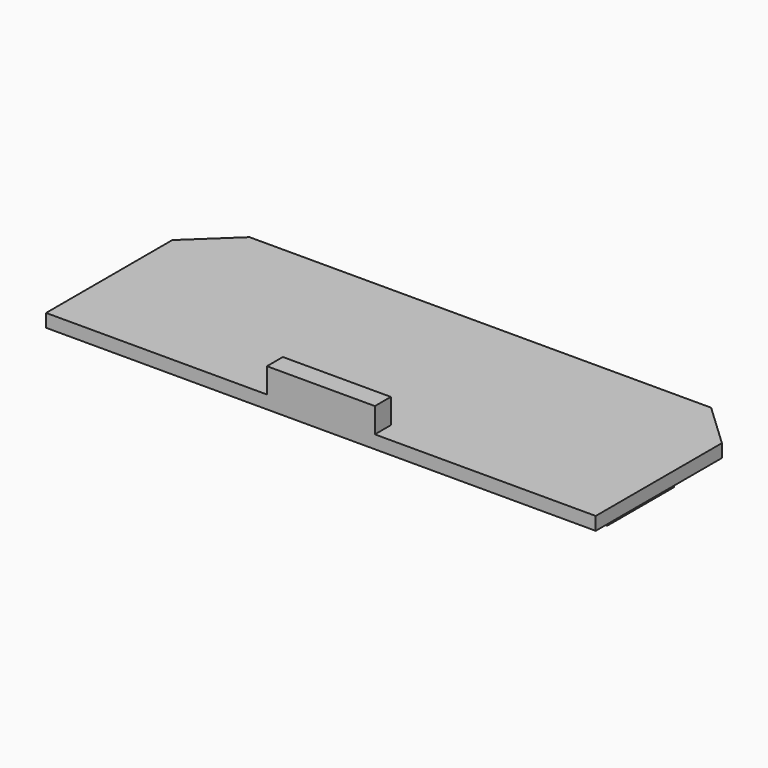
from build123d import *

# Parameters (mm, degrees)
F0_W     = 5.6
F0_H     = 10
F1_DEPTH = 7
F2_DEPTH = 1.58
F4_DEPTH = 3


with BuildPart() as f1:
    # F0 (on Top) → F1 (new body)
    with BuildSketch(Plane.XY):
        with Locations((-16.725898, -1.059211)):
            Rectangle(F0_W, F0_H)
        Polygon((8.174102, 3.940789), (5.374102, 3.940789), (2.574102, 3.940789), (2.574102, -6.059211), (8.174102, -6.059211), align=None)
        with Locations((27.474102, -1.059211)):
            Rectangle(F0_W, F0_H)
    extrude(amount=-F1_DEPTH)

    # F0 (on Top) → F2 (join)
    with BuildSketch(Plane.XY):
        Polygon((33.174102, 5.940789), (-22.425898, 5.940789), (-27.725898, 0.940789), (-27.725898, -18.059211), (38.474102, -18.059211), (38.474102, 0.940789), align=None)
        with Locations((-16.725898, -1.059211)):
            Rectangle(F0_W, F0_H, mode=Mode.SUBTRACT)
        Polygon((2.574102, 3.940789), (5.374102, 3.940789), (8.174102, 3.940789), (8.174102, -6.059211), (2.574102, -6.059211), align=None, mode=Mode.SUBTRACT)
        with Locations((27.474102, -1.059211)):
            Rectangle(F0_W, F0_H, mode=Mode.SUBTRACT)
        Polygon((33.174102, 5.940789), (-22.425898, 5.940789), (-27.725898, 0.940789), (-27.725898, -18.059211), (38.474102, -18.059211), (38.474102, 0.940789), align=None)
        with Locations((-16.725898, -1.059211)):
            Rectangle(F0_W, F0_H, mode=Mode.SUBTRACT)
        Polygon((2.574102, 3.940789), (5.374102, 3.940789), (8.174102, 3.940789), (8.174102, -6.059211), (2.574102, -6.059211), align=None, mode=Mode.SUBTRACT)
        with Locations((27.474102, -1.059211)):
            Rectangle(F0_W, F0_H, mode=Mode.SUBTRACT)
        with Locations((-16.725898, -1.059211)):
            Rectangle(F0_W, F0_H)
        Polygon((8.174102, 3.940789), (5.374102, 3.940789), (2.574102, 3.940789), (2.574102, -6.059211), (8.174102, -6.059211), align=None)
        with Locations((27.474102, -1.059211)):
            Rectangle(F0_W, F0_H)
    extrude(amount=F2_DEPTH)

    # F3 (on face) → F4 (join)
    with BuildSketch(Plane.XY.offset(1.58)):
        Polygon((-1.125898, -18.059211), (5.374102, -18.059211), (11.874102, -18.059211), (11.874102, -15.659211), (-1.125898, -15.659211), align=None)
    extrude(amount=F4_DEPTH)


solid = f1.part
